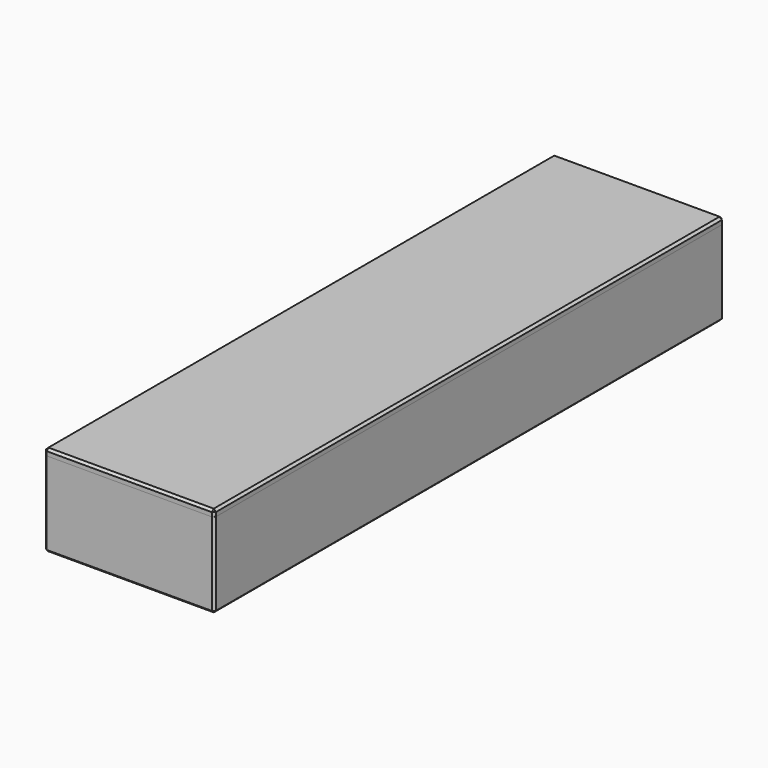
from build123d import *

# Parameters (mm, degrees)
SKETCH_W            = 40
SKETCH_H            = 150
PAD_DEPTH           = 1.5
SKETCH003_W         = 40
SKETCH003_H         = 150
SKETCH003_W_2       = 36
SKETCH003_H_2       = 146
PAD001_DEPTH        = 20
SKETCH002_R         = 1.525
POCKET_DEPTH        = 2
LINEARPATTERN_COUNT = 4
LINEARPATTERN_PITCH = 30
SKETCH006_R         = 1.525
POCKET001_DEPTH     = 5
CHAMFER_SIZE        = 0.5
SKETCH004_W         = 40
SKETCH004_H         = 150
PAD002_DEPTH        = 1.5
SKETCH005_W         = 35.6
SKETCH005_H         = 145.6
PAD003_DEPTH        = 1
CHAMFER001_SIZE     = 0.53


with BuildPart() as body:
    # Sketch → Pad (new body)
    with BuildSketch(Plane.XY):
        with Locations((0, 60)):
            Rectangle(SKETCH_W, SKETCH_H)
    extrude(amount=PAD_DEPTH)

    # Sketch003 → Pad001 (join)
    with BuildSketch(Plane.XY):
        with Locations((0, 60)):
            Rectangle(SKETCH003_W, SKETCH003_H)
        with Locations((0, 60)):
            Rectangle(SKETCH003_W_2, SKETCH003_H_2, mode=Mode.SUBTRACT)
    extrude(amount=PAD001_DEPTH)

    # Sketch002 → Pocket (cut)
    with BuildSketch(Plane.XY):
        with Locations((-12.495, 0)):
            Circle(SKETCH002_R)
        with Locations((12.495, 0)):
            Circle(SKETCH002_R)
        with BuildLine():
            Line((-10.197157, 2.391288), (-9.202157, -3.268719))
            ThreePointArc((-9.202157, -3.268719), (-8.34567, -4.753524), (-6.735, -5.34))
            Line((-6.735, -5.34), (6.735, -5.34))
            ThreePointArc((6.735, -5.34), (8.345683, -4.75353), (9.202177, -3.26872))
            Line((10.197179, 2.391285), (9.202177, -3.26872))
            ThreePointArc((10.197179, 2.391285), (9.648533, 4.435683), (7.73, 5.33))
            Line((-7.73, 5.33), (7.73, 5.33))
            ThreePointArc((-7.73, 5.33), (-9.648517, 4.435675), (-10.197157, 2.391288))
        make_face()
    pocket = extrude(amount=POCKET_DEPTH, mode=Mode.SUBTRACT)

    # LinearPattern: Pocket ×4
    with Locations(*[(0, i * LINEARPATTERN_PITCH, 0) for i in range(1, LINEARPATTERN_COUNT)]):
        add(pocket, mode=Mode.SUBTRACT)

    # Sketch006 → Pocket001 (cut)
    with BuildSketch(Plane.XY):
        with Locations((-12.495, 120)):
            Circle(SKETCH006_R)
        with Locations((12.495, 120)):
            Circle(SKETCH006_R)
        with BuildLine():
            Line((-9.202171, 123.258696), (-10.197148, 117.598706))
            ThreePointArc((-10.197148, 117.598706), (-9.648508, 115.554326), (-7.73, 114.66))
            Line((-7.73, 114.66), (7.73, 114.66))
            ThreePointArc((7.73, 114.66), (9.648508, 115.554326), (10.197148, 117.598706))
            Line((9.202171, 123.258696), (10.197148, 117.598706))
            ThreePointArc((9.202171, 123.258696), (8.345686, 124.74352), (6.735, 125.33))
            Line((-6.735, 125.33), (6.735, 125.33))
            ThreePointArc((-6.735, 125.33), (-8.345686, 124.74352), (-9.202171, 123.258696))
        make_face()
    extrude(amount=POCKET001_DEPTH, mode=Mode.SUBTRACT)

    # Chamfer
    chamfer_edges = [body.edges().sort_by_distance(p)[0] for p in [
        (-20, 60, 0),
        (0, -15, 0),
        (-20, -15, 10),
        (20, -15, 10),
        (20, 60, 0),
        (20, 135, 10),
        (0, 135, 0),
        (-20, 135, 10),
    ]]
    chamfer(chamfer_edges, length=CHAMFER_SIZE)


with BuildPart() as body001:
    # Sketch004 → Pad002 (new body)
    with BuildSketch(Plane.XY):
        with Locations((0, 60)):
            Rectangle(SKETCH004_W, SKETCH004_H)
    extrude(amount=PAD002_DEPTH)

    # Sketch005 → Pad003 (join)
    with BuildSketch(Plane.XY):
        with Locations((0, 60)):
            Rectangle(SKETCH005_W, SKETCH005_H)
    extrude(amount=-PAD003_DEPTH)

    # Chamfer001
    chamfer001_edges = [body001.edges().sort_by_distance(p)[0] for p in [
        (-20, -15, 0.75),
        (-20, 60, 1.5),
        (0, -15, 1.5),
        (-20, 135, 0.75),
        (0, 135, 1.5),
        (20, 135, 0.75),
        (20, 60, 1.5),
        (20, -15, 0.75),
    ]]
    chamfer(chamfer001_edges, length=CHAMFER001_SIZE)


with BuildPart() as body001_1:
    # Body001 placement: moved
    add(body001.part.moved(Location((0, 0, 20))))


solid = Compound([body.part, body001_1.part])
